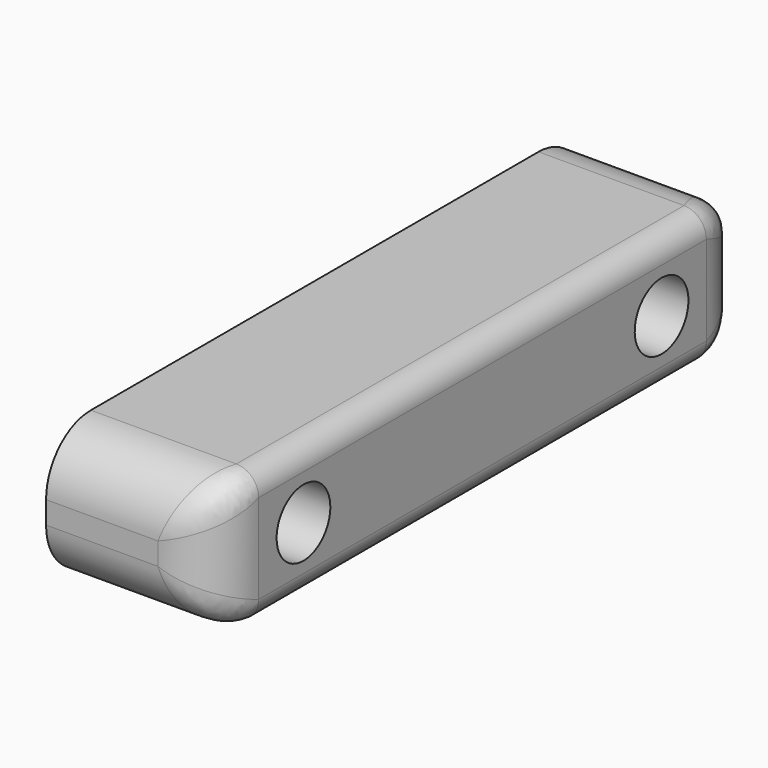
from build123d import *

# Parameters (mm, degrees)
SKETCH001_W = 12
SKETCH001_H = 60
SKETCH001_R = 3
PAD_DEPTH   = 15
FILLET_R    = 2
FILLET001_R = 2
FILLET002_R = 5
FILLET003_R = 5


with BuildPart() as part:
    # Sketch001 → Pad (new body)
    with BuildSketch(Plane(origin=(26.164927, 0, 0), x_dir=(0, 0, 1), z_dir=(1, 0, 0))):
        with Locations((15.367814, 30)):
            Rectangle(SKETCH001_W, SKETCH001_H)
        with Locations((15.367814, 10)):
            Circle(SKETCH001_R, mode=Mode.SUBTRACT)
        with Locations((15.367814, 50)):
            Circle(SKETCH001_R, mode=Mode.SUBTRACT)
    extrude(amount=PAD_DEPTH)

    # Fillet
    fillet_edges = [part.edges().sort_by_distance(p)[0] for p in [
        (41.164927, -30, 9.367814),
    ]]
    fillet(fillet_edges, radius=FILLET_R)

    # Fillet001
    fillet001_edges = [part.edges().sort_by_distance(p)[0] for p in [
        (41.164927, -30, 21.367814),
    ]]
    fillet(fillet001_edges, radius=FILLET001_R)

    # Fillet002
    fillet002_edges = [part.edges().sort_by_distance(p)[0] for p in [
        (41.164927, -60, 15.367814),
    ]]
    fillet(fillet002_edges, radius=FILLET002_R)

    # Fillet003
    fillet003_edges = [part.edges().sort_by_distance(p)[0] for p in [
        (41.164927, 0, 15.367814),
    ]]
    fillet(fillet003_edges, radius=FILLET003_R)


solid = part.part
